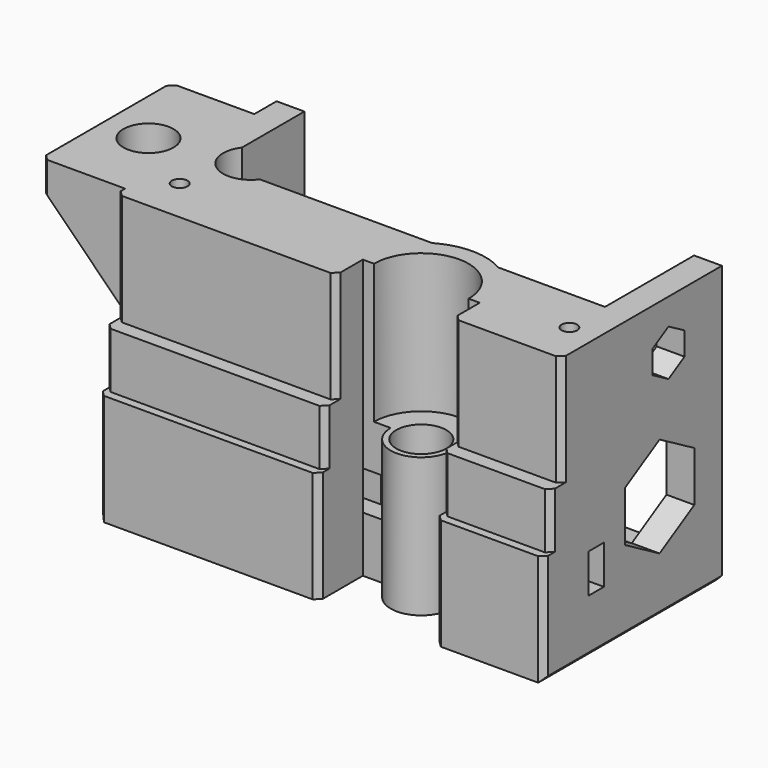
from build123d import *

# Parameters (mm, degrees)
SKETCH_W             = 80
SKETCH_H             = 40
PAD_DEPTH            = 50
SKETCH002_R          = 4.5
POCKET_DEPTH         = 50.001
SKETCH015_R          = 8.5
POCKET001_DEPTH      = 25
SKETCH004_W          = 70
SKETCH004_H          = 57
POCKET002_DEPTH      = 15
POCKET002_DEPTH_BACK = 100
SKETCH005_R          = 1.4
SKETCH005_W          = 58
SKETCH005_H          = 11.5
POCKET003_DEPTH      = 5
SKETCH006_W          = 3.5
SKETCH006_H          = 7
POCKET004_DEPTH      = 80.001
SKETCH007_W          = 10
SKETCH007_H          = 8
POCKET005_DEPTH      = 10
PAD002_DEPTH         = 29
SKETCH009_R          = 4.5
POCKET006_DEPTH      = 50.001
SKETCH013_W          = 9
SKETCH013_H          = 5.749281
POCKET007_DEPTH      = 5
POCKET007_DEPTH_BACK = 100
SKETCH014_W          = 11.905407
SKETCH014_H          = 10.178417
PAD003_DEPTH         = 0.3
POCKET029_DEPTH      = 95.001
SKETCH018_R          = 1.4
POCKET030_DEPTH      = 9
SKETCH019_R          = 2.4
POCKET031_DEPTH      = 10
POCKET032_DEPTH      = 50.001
SKETCH021_W          = 4
SKETCH021_H          = 8
POCKET033_DEPTH      = 28.001
SKETCH025_R          = 2.75
PAD014_DEPTH         = 6
SKETCH049_R          = 1.4
POCKET039_DEPTH      = 6
SKETCH044_R          = 5
POCKET040_DEPTH      = 35
PAD015_DEPTH         = 31
POCKET041_DEPTH      = 40
CHAMFER015_SIZE      = 1
CHAMFER016_SIZE      = 1
CHAMFER017_SIZE      = 1
CHAMFER018_SIZE      = 1


with BuildPart() as part:
    # Sketch → Pad (new body)
    with BuildSketch(Plane.XY):
        with Locations((0, 20)):
            Rectangle(SKETCH_W, SKETCH_H)
    extrude(amount=PAD_DEPTH)

    # Sketch002 → Pocket (cut, through all)
    with BuildSketch(Plane.XY.offset(50)):
        with Locations((10, 10)):
            Circle(SKETCH002_R)
    extrude(amount=-POCKET_DEPTH, mode=Mode.SUBTRACT)

    # Sketch015 (on Face5 of Pocket) → Pocket001 (cut)
    with BuildSketch(Plane.XY.offset(50)):
        with Locations((10, 10)):
            Circle(SKETCH015_R)
    extrude(amount=-POCKET001_DEPTH, mode=Mode.SUBTRACT)

    # Sketch004 → Pocket002 (cut, two sides)
    with BuildSketch(Plane(origin=(0, 35, 0), x_dir=(-1, 0, 0), z_dir=(0, 1, 0))) as pocket002_sk:
        with Locations((0, 31.5)):
            Rectangle(SKETCH004_W, SKETCH004_H)
    extrude(amount=-POCKET002_DEPTH, mode=Mode.SUBTRACT)
    extrude(pocket002_sk.sketch, amount=POCKET002_DEPTH_BACK, mode=Mode.SUBTRACT)

    # Sketch005 → Pocket003 (cut)
    with BuildSketch(Plane.XY.offset(3)):
        with Locations((-31.75, 31)):
            Circle(SKETCH005_R)
        with Locations((31.75, 31)):
            Circle(SKETCH005_R)
        with Locations((0, 31)):
            Rectangle(SKETCH005_W, SKETCH005_H)
    extrude(amount=-POCKET003_DEPTH, mode=Mode.SUBTRACT)

    # Sketch006 → Pocket004 (cut, through all)
    with BuildSketch(Plane(origin=(-40, 0, 0), x_dir=(0, -1, 0), z_dir=(-1, 0, 0))):
        with Locations((-11.75, 13.5)):
            Rectangle(SKETCH006_W, SKETCH006_H)
    extrude(amount=-POCKET004_DEPTH, mode=Mode.SUBTRACT)

    # Sketch007 → Pocket005 (cut)
    with BuildSketch(Plane(origin=(0, 20, 0), x_dir=(-1, 0, 0), z_dir=(0, 1, 0))):
        with Locations((-30, 14)):
            Rectangle(SKETCH007_W, SKETCH007_H)
        with Locations((30, 14)):
            Rectangle(SKETCH007_W, SKETCH007_H)
    extrude(amount=-POCKET005_DEPTH, mode=Mode.SUBTRACT)

    # Sketch008 → Pad002 (join)
    with BuildSketch(Plane(origin=(0, 35, 0), x_dir=(-1, 0, 0), z_dir=(0, 1, 0))):
        Polygon((40, 29), (55, 44), (55, 50), (40, 50), align=None)
    extrude(amount=-PAD002_DEPTH)

    # Sketch009 → Pocket006 (cut, through all)
    with BuildSketch(Plane.XY.offset(50)):
        with Locations((-47, 20)):
            Circle(SKETCH009_R)
    extrude(amount=-POCKET006_DEPTH, mode=Mode.SUBTRACT)

    # Sketch013 → Pocket007 (cut, two sides)
    with BuildSketch(Plane(origin=(-52, 0, 0), x_dir=(0, -1, 0), z_dir=(-1, 0, 0))) as pocket007_sk:
        with Locations((-20, 39.025359)):
            Rectangle(SKETCH013_W, SKETCH013_H)
    extrude(amount=-POCKET007_DEPTH, mode=Mode.SUBTRACT)
    extrude(pocket007_sk.sketch, amount=POCKET007_DEPTH_BACK, mode=Mode.SUBTRACT)

    # Sketch014 → Pad003 (join)
    with BuildSketch(Plane(origin=(0, 0, 41.900547), x_dir=(1, 0, 0), z_dir=(0, 0, -1))):
        with Locations((-46.607828, -20.201936)):
            Rectangle(SKETCH014_W, SKETCH014_H)
    extrude(amount=-PAD003_DEPTH)

    # Sketch017 → Pocket029 (cut, through all)
    with BuildSketch(Plane.YZ.offset(40)):
        Polygon((4, 53.2), (4, 30), (1.5, 30), (1.5, 20), (-2.11, 20), (-2.11, 61.28), align=None)
    extrude(amount=-POCKET029_DEPTH, mode=Mode.SUBTRACT)

    # Sketch018 → Pocket030 (cut)
    with BuildSketch(Plane.XY.offset(50)):
        with Locations((-35, 12)):
            Circle(SKETCH018_R)
        with Locations((35, 12)):
            Circle(SKETCH018_R)
    extrude(amount=-POCKET030_DEPTH, mode=Mode.SUBTRACT)

    # Sketch019 → Pocket031 (cut)
    with BuildSketch(Plane(origin=(0, 0, 0), x_dir=(1, 0, 0), z_dir=(0, 0, -1))):
        with Locations((-30, -5)):
            Circle(SKETCH019_R)
        with Locations((30, -5)):
            Circle(SKETCH019_R)
    extrude(amount=-POCKET031_DEPTH, mode=Mode.SUBTRACT)

    # Sketch020 → Pocket032 (cut, through all)
    with BuildSketch(Plane(origin=(0, 0, 0), x_dir=(1, 0, 0), z_dir=(0, 0, -1))):
        with BuildLine():
            ThreePointArc((15.5, -10), (10, -4.5), (4.5, -10))
            Line((4.5, -10), (-0.5, -10))
            Line((-0.5, -10), (-0.5, 2.44))
            Line((-0.5, 2.44), (20.5, 2.44))
            Line((20.5, -10), (20.5, 2.44))
            Line((15.5, -10), (20.5, -10))
        make_face()
    extrude(amount=-POCKET032_DEPTH, mode=Mode.SUBTRACT)

    # Sketch021 → Pocket033 (cut, through all)
    with BuildSketch(Plane.XZ.offset(-12)):
        with Locations((18, 14)):
            Rectangle(SKETCH021_W, SKETCH021_H)
        with Locations((2, 14)):
            Rectangle(SKETCH021_W, SKETCH021_H)
    extrude(amount=-POCKET033_DEPTH, mode=Mode.SUBTRACT)

    # Sketch025 (on Face1 of Pocket033) → Pad014 (join)
    with BuildSketch(Plane(origin=(0, 40, 0), x_dir=(-1, 0, 0), z_dir=(0, 1, 0))):
        with Locations((-36, 3.5)):
            Circle(SKETCH025_R)
    pad014 = extrude(amount=-PAD014_DEPTH)

    # Mirrored002: Pad014 across Sketch025 V_Axis
    add(pad014.mirror(Plane(origin=(0, 40, 0), x_dir=(0, 1, 0), z_dir=(-1, 0, 0))))

    # Sketch049 (on Face1 of Mirrored002) → Pocket039 (cut)
    with BuildSketch(Plane(origin=(0, 40, 0), x_dir=(-1, 0, 0), z_dir=(0, 1, 0))):
        with Locations((-36, 3.5)):
            Circle(SKETCH049_R)
    pocket039 = extrude(amount=-POCKET039_DEPTH, mode=Mode.SUBTRACT)

    # Mirrored003: Pocket039 across Sketch049 V_Axis
    add(pocket039.mirror(Plane(origin=(0, 40, 0), x_dir=(0, 1, 0), z_dir=(-1, 0, 0))), mode=Mode.SUBTRACT)

    # Sketch044 → Pocket040 (cut)
    with BuildSketch(Plane.XY.offset(50)):
        with Locations((-31, 23)):
            Circle(SKETCH044_R)
    extrude(amount=-POCKET040_DEPTH, mode=Mode.SUBTRACT)

    # Sketch026 → Pad015 (join)
    with BuildSketch(Plane.XY.offset(50)):
        with BuildLine():
            ThreePointArc((21.221659, 13.061419), (12.186737, 21.372713), (0.660759, 17.14669))
            Line((1.758582, 14.664218), (0.660759, 17.14669))
            ThreePointArc((19.018099, 12.326896), (11.159892, 19.192932), (1.758582, 14.664218))
            Line((19.018099, 12.326896), (21.221659, 13.061419))
        make_face()
    extrude(amount=-PAD015_DEPTH)

    # Sketch042 → Pocket041 (cut)
    with BuildSketch(Plane.YZ.offset(40)):
        Polygon((26, 10.194524), (33.8, 14.697856), (33.8, 23.70452), (26, 28.207852), (18.2, 23.70452), (18.2, 14.697856), align=None)
        Polygon((31.6, 39.037417), (31.6, 43.194339), (28, 45.2728), (24.4, 43.194339), (24.4, 39.037417), (28, 36.958956), align=None)
    extrude(amount=-POCKET041_DEPTH, mode=Mode.SUBTRACT)

    # Chamfer015
    chamfer015_edges = [part.edges().sort_by_distance(p)[0] for p in [
        (40, 20, 0),
        (-40, 20, 0),
    ]]
    chamfer(chamfer015_edges, length=CHAMFER015_SIZE)

    # Chamfer016
    chamfer016_edges = [part.edges().sort_by_distance(p)[0] for p in [
        (-55, 35, 47),
        (-55, 6, 47),
        (-47.5, 6, 36.5),
    ]]
    chamfer(chamfer016_edges, length=CHAMFER016_SIZE)

    # Chamfer017
    chamfer017_edges = [part.edges().sort_by_distance(p)[0] for p in [
        (-0.5, 4, 40),
        (20.5, 4, 40),
        (20.5, 1.5, 25),
        (-0.5, 1.5, 25),
        (-0.5, 0, 10),
        (20.5, 0, 10),
    ]]
    chamfer(chamfer017_edges, length=CHAMFER017_SIZE)

    # Chamfer018
    chamfer018_edges = [part.edges().sort_by_distance(p)[0] for p in [
        (40, 0, 10.5),
        (40, 1.5, 25),
        (40, 4, 40),
        (-40, 0, 10.5),
        (-40, 1.5, 25),
        (-40, 4, 40),
    ]]
    chamfer(chamfer018_edges, length=CHAMFER018_SIZE)


solid = part.part
